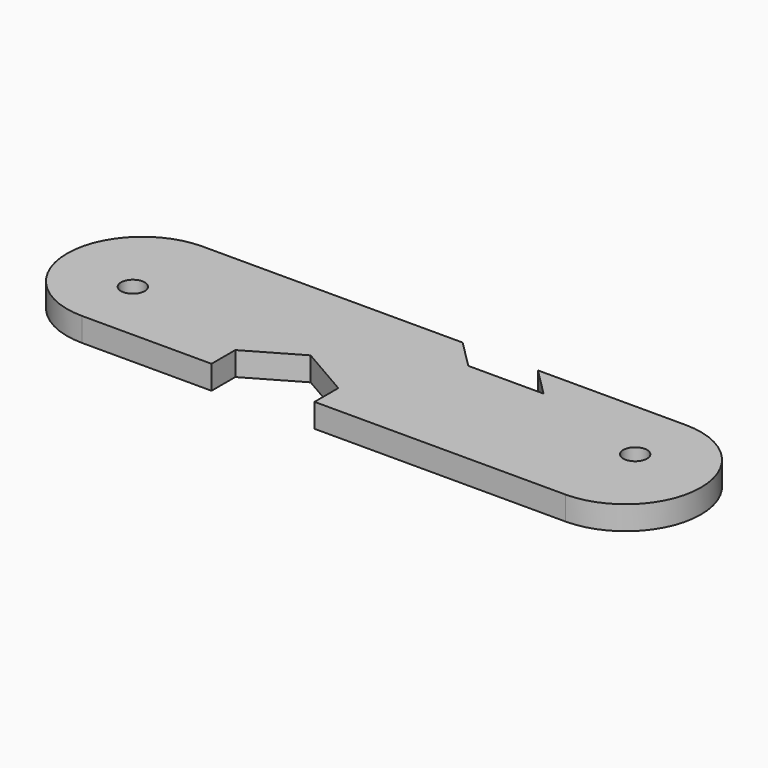
from build123d import *

# Parameters (mm, degrees)
F0_R     = 1.5
F1_DEPTH = 3


with BuildPart() as f1:
    # F0 (on Top) → F1 (new body)
    with BuildSketch(Plane.XY):
        with BuildLine():
            Line((0, 9.5), (-29.330358, 9.5))
            ThreePointArc((-29.330358, 9.5), (-38.830358, 0), (-29.330358, -9.5))
            Line((-29.330358, -9.5), (-18, -9.5))
            Line((-18, -9.5), (-13, -9.5))
            Line((-13, -9.5), (-13, -5.747223))
            Line((-13, -5.747223), (-6.5, -1.994447))
            Line((-6.5, -1.994447), (0, -5.747223))
            Line((0, -5.747223), (0, -9.5))
            Line((0, -9.5), (31.669642, -9.5))
            ThreePointArc((31.669642, -9.5), (41.169642, 0), (31.669642, 9.5))
            Line((31.669642, 9.5), (18, 9.5))
            Line((18, 9.5), (13, 9.5))
            Line((13, 9.5), (16.535534, 5.964466))
            Line((16.535534, 5.964466), (7.035534, 5.964466))
            Line((7.035534, 5.964466), (3.5, 9.5))
            Line((3.5, 9.5), (0, 9.5))
        make_face()
        with Locations((-29.330358, -1.5)):
            Circle(F0_R, mode=Mode.SUBTRACT)
        with Locations((31.669642, 1.5)):
            Circle(F0_R, mode=Mode.SUBTRACT)
    extrude(amount=F1_DEPTH)


solid = f1.part
